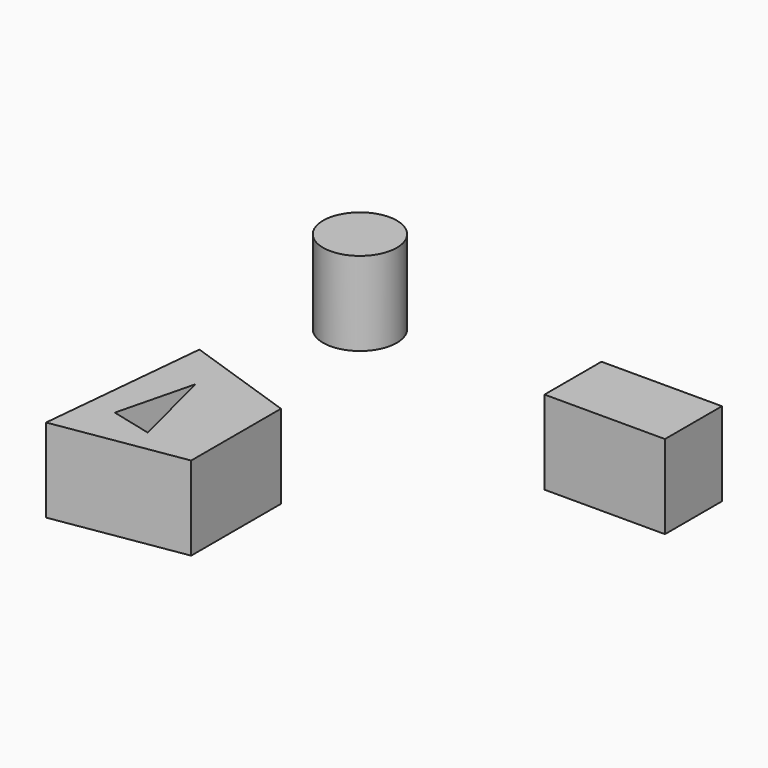
from build123d import *

# Parameters (mm, degrees)
F0_R     = 11.179722
F0_W     = 36.537992
F0_H     = 21.590633
F1_DEPTH = 25.4


with BuildPart() as f1:
    # F0 (on Top) → F1 (new body)
    with BuildSketch(Plane.XY):
        Polygon((-20.952431, -29.079724), (-54.999199, -17.453996), (-59.981655, -69.354557), (-20.952431, -63.12649), align=None)
        Polygon((-50.431952, -55.237599), (-44.619087, -31.986151), (-37.92697, -58.363846), align=None, mode=Mode.SUBTRACT)
        with Locations((-62.280677, 52.52336)):
            Circle(F0_R)
        with Locations((41.520446, 26.365479)):
            Rectangle(F0_W, F0_H)
    extrude(amount=F1_DEPTH)


solid = f1.part
